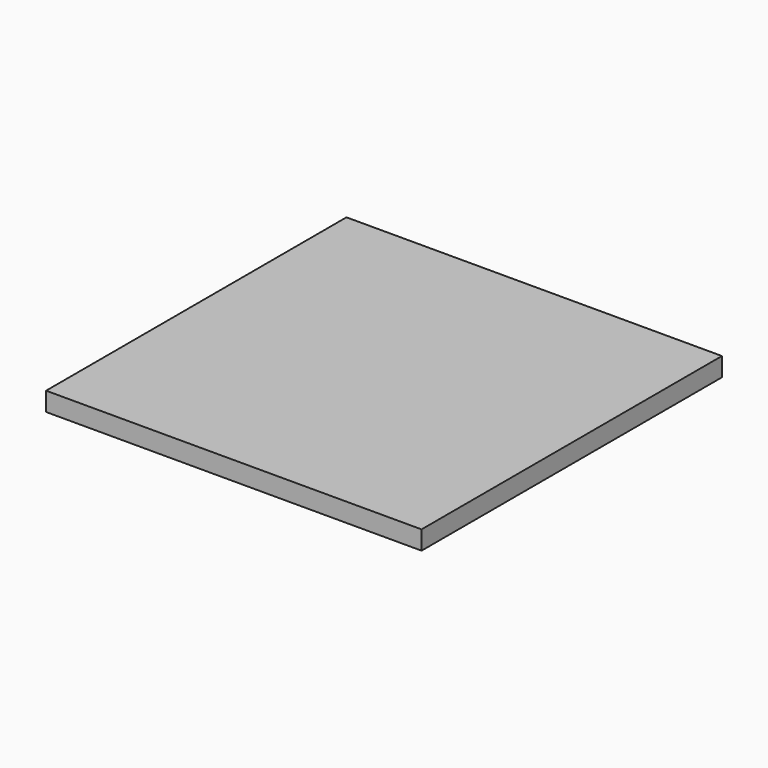
from build123d import *

# Parameters (mm, degrees)
F1_W     = 508
F1_H     = 508
F2_DEPTH = 25.4


with BuildPart() as f2:
    # F1 (on face) → F2 (new body)
    with BuildSketch(Plane.XY):
        with Locations((-1.000065, 302.163795)):
            Rectangle(F1_W, F1_H)
    extrude(amount=F2_DEPTH)


solid = f2.part
